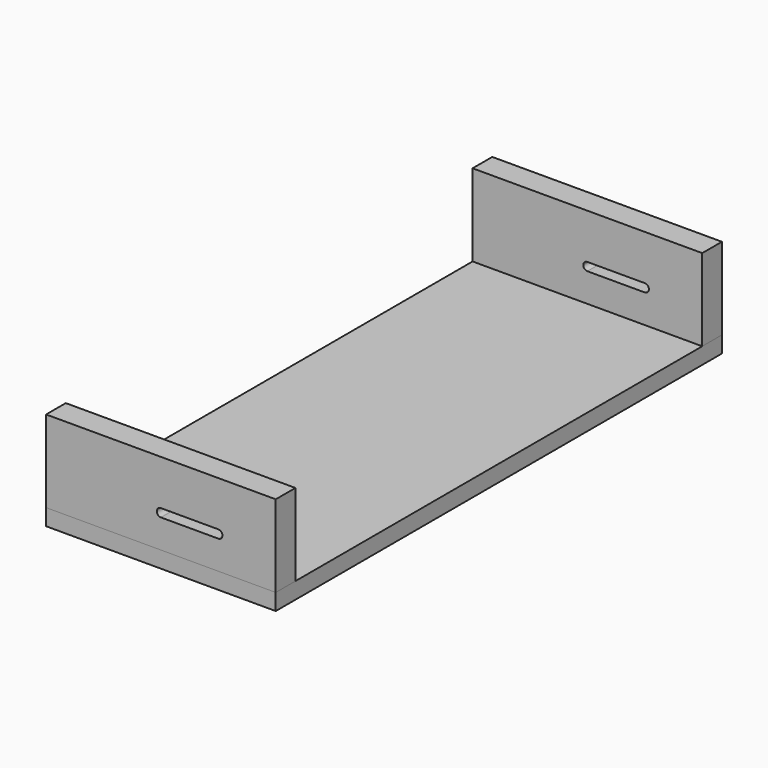
from build123d import *

# Parameters (mm, degrees)
F0_W     = 177.8
F0_H     = 19.05
F1_DEPTH = 12.7
F2_DEPTH = 63.5
F3_DEPTH = 63.5
F5_DEPTH = 25.4
F7_DEPTH = 25.4


with BuildPart() as f1:
    # F0 (on Top) → F1 (new body)
    with BuildSketch(Plane.XY):
        with Locations((-88.9, -206.375)):
            Rectangle(F0_W, F0_H)
        Polygon((0, -196.85), (0, 0), (0, 196.85), (-177.8, 196.85), (-177.8, -196.85), align=None)
        with Locations((-88.9, 206.375)):
            Rectangle(F0_W, F0_H)
    extrude(amount=-F1_DEPTH)


with BuildPart() as f2:
    # F0 (on Top) → F2 (new body)
    with BuildSketch(Plane.XY):
        with Locations((-88.9, 206.375)):
            Rectangle(F0_W, F0_H)
    extrude(amount=F2_DEPTH)

    # F6 (on face) → F7 (cut)
    with BuildSketch(Plane(origin=(0, 215.9, 0), x_dir=(-1, 0, 0), z_dir=(0, 1, 0))):
        with BuildLine():
            Line((88.9, 28.575), (44.45, 28.575))
            ThreePointArc((44.45, 28.575), (46.695064, 27.645064), (47.625, 25.4))
            ThreePointArc((47.625, 25.4), (46.695064, 23.154936), (44.45, 22.225))
            Line((44.45, 22.225), (88.9, 22.225))
            ThreePointArc((88.9, 22.225), (85.725, 25.4), (88.9, 28.575))
        make_face()
        with BuildLine():
            ThreePointArc((47.625, 25.4), (46.695064, 27.645064), (44.45, 28.575))
            Line((44.45, 28.575), (44.45, 25.4))
            Line((44.45, 25.4), (44.45, 22.225))
            ThreePointArc((44.45, 22.225), (46.695064, 23.154936), (47.625, 25.4))
        make_face()
        with BuildLine():
            Line((44.45, 25.4), (44.45, 28.575))
            ThreePointArc((44.45, 28.575), (41.275, 25.4), (44.45, 22.225))
            Line((44.45, 22.225), (44.45, 25.4))
        make_face()
        with BuildLine():
            Line((88.9, 22.225), (88.9, 28.575))
            ThreePointArc((88.9, 28.575), (85.725, 25.4), (88.9, 22.225))
        make_face()
        with BuildLine():
            ThreePointArc((92.075, 25.4), (91.145064, 27.645064), (88.9, 28.575))
            Line((88.9, 28.575), (88.9, 22.225))
            ThreePointArc((88.9, 22.225), (91.145064, 23.154936), (92.075, 25.4))
        make_face()
    extrude(amount=-F7_DEPTH, mode=Mode.SUBTRACT)


with BuildPart() as f3:
    # F0 (on Top) → F3 (new body)
    with BuildSketch(Plane.XY):
        with Locations((-88.9, -206.375)):
            Rectangle(F0_W, F0_H)
    extrude(amount=F3_DEPTH)

    # F4 (on face) → F5 (cut)
    with BuildSketch(Plane.XZ.offset(215.9)):
        with BuildLine():
            ThreePointArc((-85.725, 25.4), (-86.654936, 27.645064), (-88.9, 28.575))
            Line((-88.9, 28.575), (-88.9, 25.4))
            Line((-88.9, 25.4), (-88.9, 22.225))
            ThreePointArc((-88.9, 22.225), (-86.654936, 23.154936), (-85.725, 25.4))
        make_face()
        with BuildLine():
            Line((-44.45, 22.225), (-44.45, 28.575))
            ThreePointArc((-44.45, 28.575), (-47.625, 25.4), (-44.45, 22.225))
        make_face()
        with BuildLine():
            ThreePointArc((-41.275, 25.4), (-42.204936, 27.645064), (-44.45, 28.575))
            Line((-44.45, 28.575), (-44.45, 22.225))
            ThreePointArc((-44.45, 22.225), (-42.204936, 23.154936), (-41.275, 25.4))
        make_face()
        with BuildLine():
            Line((-88.9, 25.4), (-88.9, 28.575))
            ThreePointArc((-88.9, 28.575), (-92.075, 25.4), (-88.9, 22.225))
            Line((-88.9, 22.225), (-88.9, 25.4))
        make_face()
        with BuildLine():
            Line((-44.45, 28.575), (-88.9, 28.575))
            ThreePointArc((-88.9, 28.575), (-86.654936, 27.645064), (-85.725, 25.4))
            ThreePointArc((-85.725, 25.4), (-86.654936, 23.154936), (-88.9, 22.225))
            Line((-88.9, 22.225), (-44.45, 22.225))
            ThreePointArc((-44.45, 22.225), (-47.625, 25.4), (-44.45, 28.575))
        make_face()
    extrude(amount=-F5_DEPTH, mode=Mode.SUBTRACT)


solid = Compound([f1.part, f2.part, f3.part])
